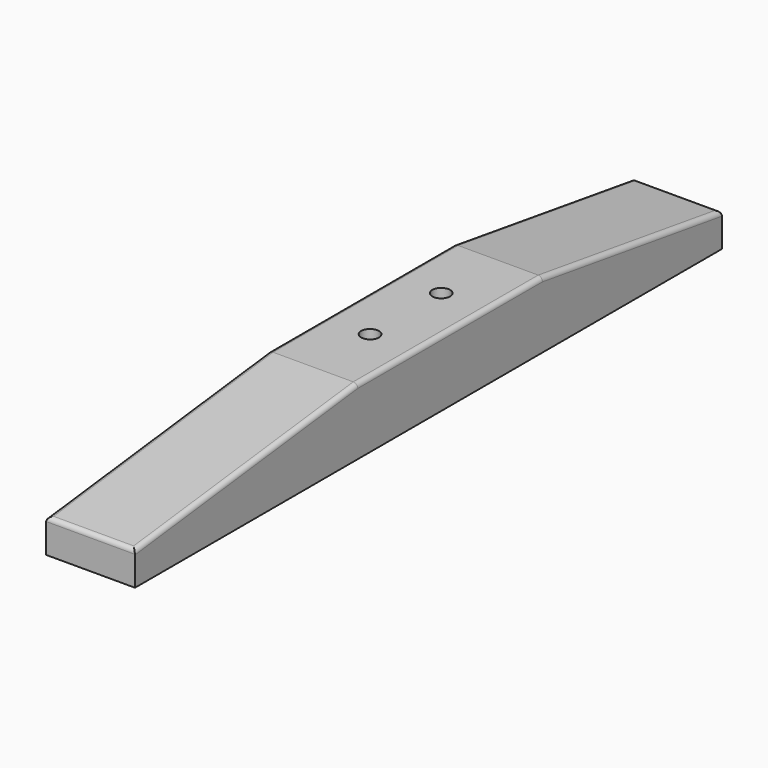
from build123d import *

# Parameters (mm, degrees)
PAD_DEPTH       = 20
SKETCH001_R     = 2
POCKET_DEPTH    = 15.001
SKETCH002_R     = 4
POCKET001_DEPTH = 8
FILLET_R        = 1


with BuildPart() as part:
    # Sketch (on YZ_Plane of Origin) → Pad (new body)
    with BuildSketch(Plane.YZ):
        Polygon((-84.432856, 0), (80.567144, 0), (80.567144, 7.5), (30.15051, 15), (-21.84949, 15), (-84.432856, 7.5), align=None)
    extrude(amount=PAD_DEPTH)

    # Sketch001 (on Face4 of Pad) → Pocket (cut, through all)
    with BuildSketch(Plane.XY.offset(15)):
        with Locations((10, 14.15051)):
            Circle(SKETCH001_R)
        with Locations((10, -5.84949)):
            Circle(SKETCH001_R)
    extrude(amount=-POCKET_DEPTH, mode=Mode.SUBTRACT)

    # Sketch002 (on Face1 of Pocket) → Pocket001 (cut)
    with BuildSketch(Plane(origin=(0, 0, 0), x_dir=(1, 0, 0), z_dir=(0, 0, -1))):
        with Locations((10, 5.84949)):
            Circle(SKETCH002_R)
        with Locations((10, -14.15051)):
            Circle(SKETCH002_R)
    extrude(amount=-POCKET001_DEPTH, mode=Mode.SUBTRACT)

    # Fillet
    fillet_edges = [part.edges().sort_by_distance(p)[0] for p in [
        (10, -84.432856, 7.5),
        (0, -53.141173, 11.25),
        (20, -53.141173, 11.25),
        (20, 4.15051, 15),
        (0, 4.15051, 15),
        (0, 55.358827, 11.25),
        (20, 55.358827, 11.25),
        (10, 80.567144, 7.5),
    ]]
    fillet(fillet_edges, radius=FILLET_R)


solid = part.part
